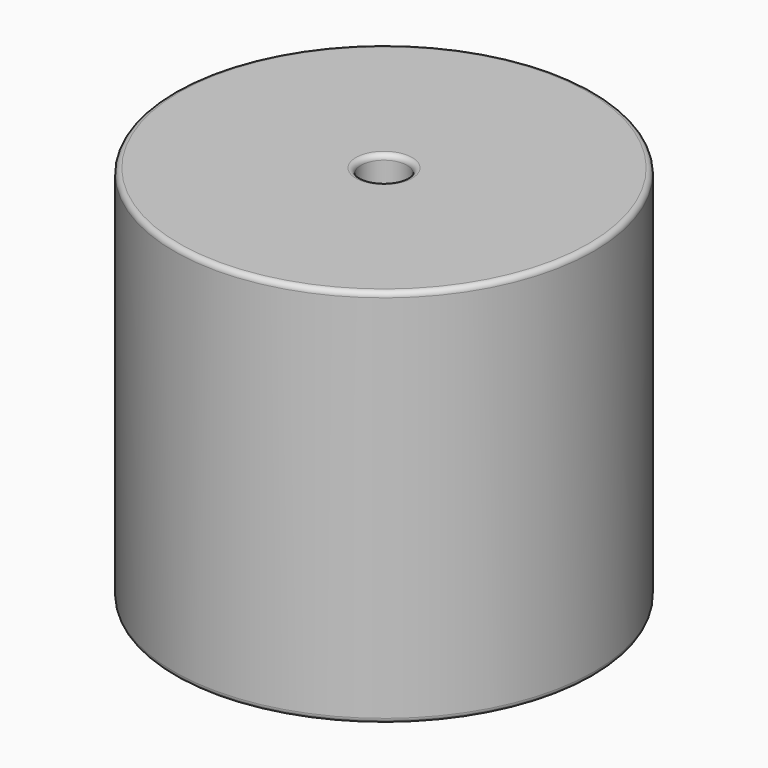
from build123d import *

# Parameters (mm, degrees)
SKETCH_R          = 20.32
SKETCH_R_2        = 2.225
PAD_DEPTH         = 36.83
FILLET_R          = 0.5
SKETCH001_R       = 1.05
PAD001_DEPTH      = 18.415
PAD001_DEPTH_BACK = 3.5


with BuildPart() as fillet_body:
    # Sketch → Pad (new body)
    with BuildSketch(Plane.XY.offset(0.1)):
        with Locations((14.35, 0)):
            Circle(SKETCH_R)
        with Locations((14.35, 0)):
            Circle(SKETCH_R_2, mode=Mode.SUBTRACT)
    extrude(amount=PAD_DEPTH)

    # Fillet
    fillet_edges = [fillet_body.edges().sort_by_distance(p)[0] for p in [
        (12.125, 0, 36.93),
        (-5.97, 0, 36.93),
        (-5.97, 0, 0.1),
    ]]
    fillet(fillet_edges, radius=FILLET_R)


with BuildPart() as obj1:
    # Sketch001 → Pad001 (new body, two sides)
    with BuildSketch(Plane.XY.offset(0.5)) as pad001_sk:
        Circle(SKETCH001_R)
        with Locations((28.7, 0)):
            Circle(SKETCH001_R)
    extrude(amount=PAD001_DEPTH)
    extrude(pad001_sk.sketch, amount=-PAD001_DEPTH_BACK)

    # obj1: union Fillet body
    add(fillet_body.part)


solid = obj1.part
